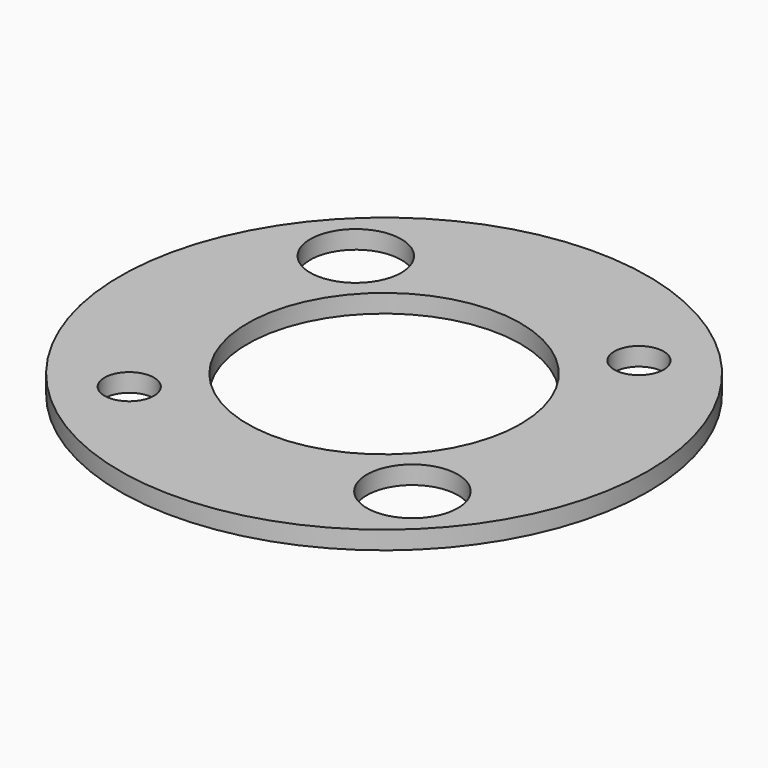
from build123d import *

# Parameters (mm, degrees)
F0_R     = 23.01875
F0_R_2   = 2.15265
F0_R_3   = 3.96875
F0_R_4   = 11.90625
F1_DEPTH = 1.5875


with BuildPart() as f1:
    # F0 (on Top) → F1 (new body)
    with BuildSketch(Plane.XY):
        Circle(F0_R)
        with Locations((-12.347852, -12.347852)):
            Circle(F0_R_2, mode=Mode.SUBTRACT)
        with Locations((12.347852, -12.347852)):
            Circle(F0_R_3, mode=Mode.SUBTRACT)
        with Locations((-12.347852, 12.347852)):
            Circle(F0_R_3, mode=Mode.SUBTRACT)
        Circle(F0_R_4, mode=Mode.SUBTRACT)
        with Locations((12.347852, 12.347852)):
            Circle(F0_R_2, mode=Mode.SUBTRACT)
    extrude(amount=F1_DEPTH)


solid = f1.part
